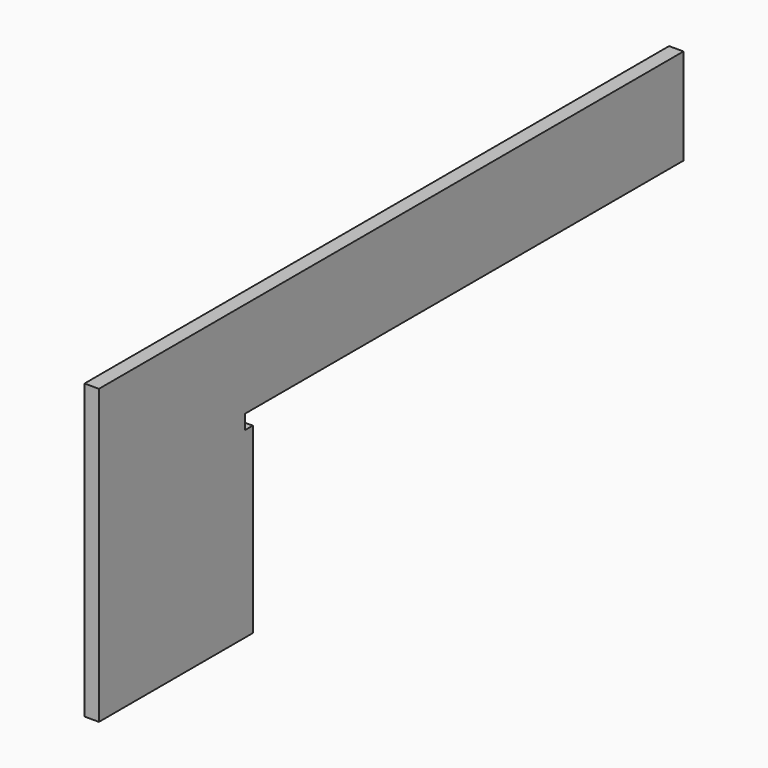
from build123d import *

# Parameters (mm, degrees)
F0_W     = 254
F0_H     = 387.35
F1_DEPTH = 19.05
F2_W     = 12.7
F2_H     = 146.05
F3_DEPTH = 19.051
F4_W     = 723.9
F4_H     = 127
F5_DEPTH = 19.05


with BuildPart() as f1:
    # F0 (on Right) → F1 (new body)
    with BuildSketch(Plane.YZ):
        with Locations((127, 193.675)):
            Rectangle(F0_W, F0_H)
    extrude(amount=F1_DEPTH)

    # F2 (on face) → F3 (cut, through all)
    with BuildSketch(Plane.YZ.offset(19.05)):
        with Locations((247.65, 314.325)):
            Rectangle(F2_W, F2_H)
    extrude(amount=-F3_DEPTH, mode=Mode.SUBTRACT)

    # F4 (on face) → F5 (join)
    with BuildSketch(Plane.YZ.offset(19.05)):
        with Locations((603.25, 323.85)):
            Rectangle(F4_W, F4_H)
    extrude(amount=-F5_DEPTH)


solid = f1.part
